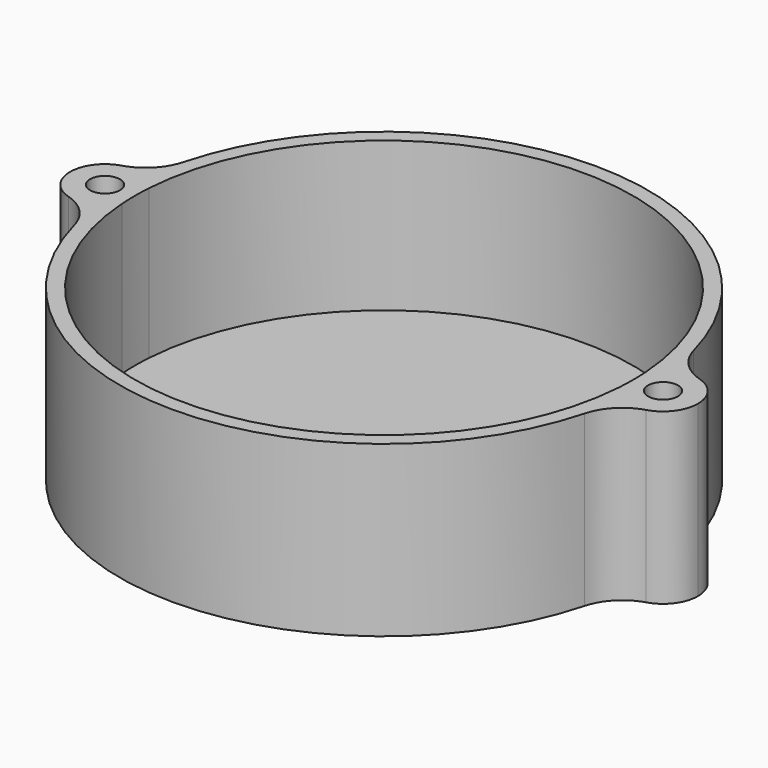
from build123d import *

# Parameters (mm, degrees)
F0_R     = 1.5
F1_DEPTH = 17
F2_DEPTH = 2
F3_R     = 5


with BuildPart() as f1:
    # F0 (on Top) → F1 (new body)
    with BuildSketch(Plane.XY):
        with BuildLine():
            ThreePointArc((24.9419642857, 1.7024739558), (24.9854868588, 0.8517314298), (25, 0))
            ThreePointArc((25, 0), (24.9854868588, -0.8517314298), (24.9419642857, -1.7024739558))
            ThreePointArc((24.9419642857, -1.7024739558), (25.5347963833, -2.4845062142), (26.3214285714, -3.0712209232))
            ThreePointArc((26.3214285714, -3.0712209232), (26.4553194759, -1.538203962), (26.5, 0))
            ThreePointArc((26.5, 0), (26.4553194759, 1.538203962), (26.3214285714, 3.0712209232))
            ThreePointArc((26.3214285714, 3.0712209232), (25.5347963833, 2.4845062142), (24.9419642857, 1.7024739558))
        make_face()
        with BuildLine():
            ThreePointArc((-24.9419642857, 1.7024739558), (0, 25), (24.9419642857, 1.7024739558))
            ThreePointArc((24.9419642857, 1.7024739558), (25.5347963833, 2.4845062142), (26.3214285714, 3.0712209232))
            ThreePointArc((26.3214285714, 3.0712209232), (0, 26.5), (-26.3214285714, 3.0712209232))
            ThreePointArc((-26.3214285714, 3.0712209232), (-25.5347963833, 2.4845062142), (-24.9419642857, 1.7024739558))
        make_face()
        with BuildLine():
            ThreePointArc((26.3214285714, -3.0712209232), (25.5347963833, -2.4845062142), (24.9419642857, -1.7024739558))
            ThreePointArc((24.9419642857, -1.7024739558), (0, -25), (-24.9419642857, -1.7024739558))
            ThreePointArc((-24.9419642857, -1.7024739558), (-25.5347963833, -2.4845062142), (-26.3214285714, -3.0712209232))
            ThreePointArc((-26.3214285714, -3.0712209232), (0, -26.5), (26.3214285714, -3.0712209232))
        make_face()
        with BuildLine():
            ThreePointArc((-24.9419642857, -1.7024739558), (-25, 0), (-24.9419642857, 1.7024739558))
            ThreePointArc((-24.9419642857, 1.7024739558), (-25.5347963833, 2.4845062142), (-26.3214285714, 3.0712209232))
            ThreePointArc((-26.3214285714, 3.0712209232), (-26.4553194759, 1.538203962), (-26.5, 0))
            ThreePointArc((-26.5, 0), (-26.4553194759, -1.538203962), (-26.3214285714, -3.0712209232))
            ThreePointArc((-26.3214285714, -3.0712209232), (-25.5347963833, -2.4845062142), (-24.9419642857, -1.7024739558))
        make_face()
        with BuildLine():
            ThreePointArc((31.5, 0), (29.7853571071, 3.0103986447), (26.3214285714, 3.0712209232))
            ThreePointArc((26.3214285714, 3.0712209232), (26.4553194759, 1.538203962), (26.5, 0))
            ThreePointArc((26.5, 0), (26.4553194759, -1.538203962), (26.3214285714, -3.0712209232))
            ThreePointArc((26.3214285714, -3.0712209232), (29.7853571071, -3.0103986447), (31.5, 0))
        make_face()
        with BuildLine():
            ThreePointArc((29.5, 0), (28, -1.5), (26.5, 0))
            ThreePointArc((26.5, 0), (28, 1.5), (29.5, 0))
        make_face(mode=Mode.SUBTRACT)
        with BuildLine():
            ThreePointArc((-26.5, 0), (-26.4553194759, 1.538203962), (-26.3214285714, 3.0712209232))
            ThreePointArc((-26.3214285714, 3.0712209232), (-31.5, 0), (-26.3214285714, -3.0712209232))
            ThreePointArc((-26.3214285714, -3.0712209232), (-26.4553194759, -1.538203962), (-26.5, 0))
        make_face()
        with Locations((-28, 0)):
            Circle(F0_R, mode=Mode.SUBTRACT)
    extrude(amount=F1_DEPTH)

    # F0 (on Top) → F2 (join)
    with BuildSketch(Plane.XY):
        with BuildLine():
            ThreePointArc((24.9419642857, 1.7024739558), (24.9854868588, 0.8517314298), (25, 0))
            ThreePointArc((25, 0), (24.9854868588, -0.8517314298), (24.9419642857, -1.7024739558))
            ThreePointArc((24.9419642857, -1.7024739558), (25.5347963833, -2.4845062142), (26.3214285714, -3.0712209232))
            ThreePointArc((26.3214285714, -3.0712209232), (26.4553194759, -1.538203962), (26.5, 0))
            ThreePointArc((26.5, 0), (26.4553194759, 1.538203962), (26.3214285714, 3.0712209232))
            ThreePointArc((26.3214285714, 3.0712209232), (25.5347963833, 2.4845062142), (24.9419642857, 1.7024739558))
        make_face()
        with BuildLine():
            ThreePointArc((-24.9419642857, 1.7024739558), (0, 25), (24.9419642857, 1.7024739558))
            ThreePointArc((24.9419642857, 1.7024739558), (25.5347963833, 2.4845062142), (26.3214285714, 3.0712209232))
            ThreePointArc((26.3214285714, 3.0712209232), (0, 26.5), (-26.3214285714, 3.0712209232))
            ThreePointArc((-26.3214285714, 3.0712209232), (-25.5347963833, 2.4845062142), (-24.9419642857, 1.7024739558))
        make_face()
        with BuildLine():
            ThreePointArc((26.3214285714, -3.0712209232), (25.5347963833, -2.4845062142), (24.9419642857, -1.7024739558))
            ThreePointArc((24.9419642857, -1.7024739558), (0, -25), (-24.9419642857, -1.7024739558))
            ThreePointArc((-24.9419642857, -1.7024739558), (-25.5347963833, -2.4845062142), (-26.3214285714, -3.0712209232))
            ThreePointArc((-26.3214285714, -3.0712209232), (0, -26.5), (26.3214285714, -3.0712209232))
        make_face()
        with BuildLine():
            ThreePointArc((-24.9419642857, -1.7024739558), (-25, 0), (-24.9419642857, 1.7024739558))
            ThreePointArc((-24.9419642857, 1.7024739558), (-25.5347963833, 2.4845062142), (-26.3214285714, 3.0712209232))
            ThreePointArc((-26.3214285714, 3.0712209232), (-26.4553194759, 1.538203962), (-26.5, 0))
            ThreePointArc((-26.5, 0), (-26.4553194759, -1.538203962), (-26.3214285714, -3.0712209232))
            ThreePointArc((-26.3214285714, -3.0712209232), (-25.5347963833, -2.4845062142), (-24.9419642857, -1.7024739558))
        make_face()
        with BuildLine():
            ThreePointArc((31.5, 0), (29.7853571071, 3.0103986447), (26.3214285714, 3.0712209232))
            ThreePointArc((26.3214285714, 3.0712209232), (26.4553194759, 1.538203962), (26.5, 0))
            ThreePointArc((26.5, 0), (26.4553194759, -1.538203962), (26.3214285714, -3.0712209232))
            ThreePointArc((26.3214285714, -3.0712209232), (29.7853571071, -3.0103986447), (31.5, 0))
        make_face()
        with BuildLine():
            ThreePointArc((29.5, 0), (28, -1.5), (26.5, 0))
            ThreePointArc((26.5, 0), (28, 1.5), (29.5, 0))
        make_face(mode=Mode.SUBTRACT)
        with BuildLine():
            ThreePointArc((-26.5, 0), (-26.4553194759, 1.538203962), (-26.3214285714, 3.0712209232))
            ThreePointArc((-26.3214285714, 3.0712209232), (-31.5, 0), (-26.3214285714, -3.0712209232))
            ThreePointArc((-26.3214285714, -3.0712209232), (-26.4553194759, -1.538203962), (-26.5, 0))
        make_face()
        with Locations((-28, 0)):
            Circle(F0_R, mode=Mode.SUBTRACT)
        with BuildLine():
            ThreePointArc((24.9419642857, -1.7024739558), (24.5, 0), (24.9419642857, 1.7024739558))
            ThreePointArc((24.9419642857, 1.7024739558), (0, 25), (-24.9419642857, 1.7024739558))
            ThreePointArc((-24.9419642857, 1.7024739558), (-24.6122924418, 0.879452955), (-24.5, 0))
            ThreePointArc((-24.5, 0), (-24.6122924418, -0.879452955), (-24.9419642857, -1.7024739558))
            ThreePointArc((-24.9419642857, -1.7024739558), (0, -25), (24.9419642857, -1.7024739558))
        make_face()
        with BuildLine():
            ThreePointArc((-24.5, 0), (-24.6122924418, 0.879452955), (-24.9419642857, 1.7024739558))
            ThreePointArc((-24.9419642857, 1.7024739558), (-25, 0), (-24.9419642857, -1.7024739558))
            ThreePointArc((-24.9419642857, -1.7024739558), (-24.6122924418, -0.879452955), (-24.5, 0))
        make_face()
        with BuildLine():
            ThreePointArc((24.9419642857, -1.7024739558), (24.9854868588, -0.8517314298), (25, 0))
            ThreePointArc((25, 0), (24.9854868588, 0.8517314298), (24.9419642857, 1.7024739558))
            ThreePointArc((24.9419642857, 1.7024739558), (24.5, 0), (24.9419642857, -1.7024739558))
        make_face()
        with Locations((-28, 0)):
            Circle(F0_R)
        with BuildLine():
            ThreePointArc((29.5, 0), (28, 1.5), (26.5, 0))
            ThreePointArc((26.5, 0), (28, -1.5), (29.5, 0))
        make_face()
    extrude(amount=F2_DEPTH)

    # F3
    f3_edges = [f1.edges().sort_by_distance(p)[0] for p in [
        (-26.321429, 3.071221, 8.5),
        (-26.321429, -3.071221, 8.5),
        (26.321429, -3.071221, 8.5),
        (26.321429, 3.071221, 8.5),
    ]]
    fillet(f3_edges, radius=F3_R)


solid = f1.part
